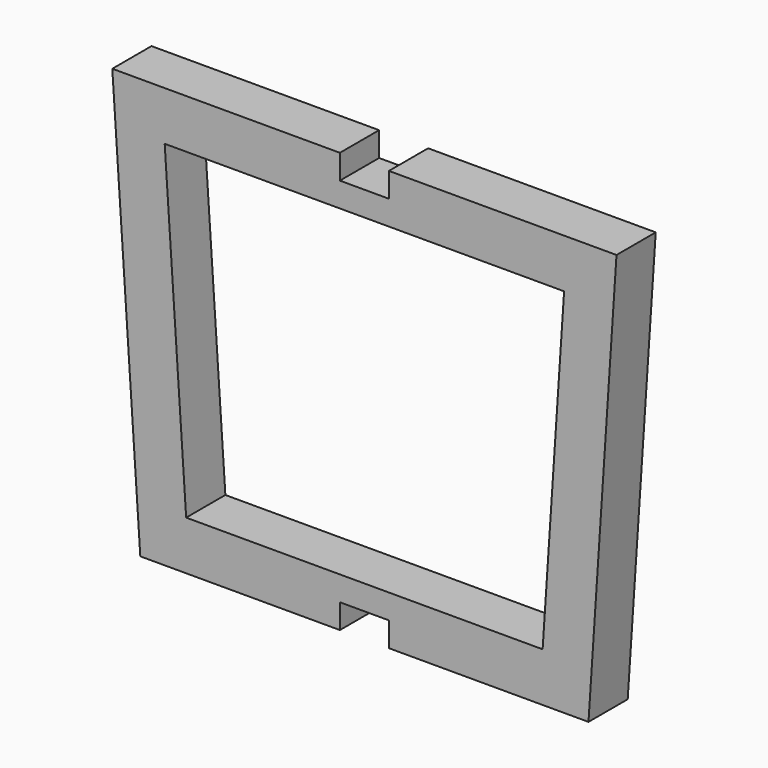
from build123d import *

# Parameters (mm, degrees)
F2_DEPTH = 17.5
F3_DEPTH = 17.5
F4_W     = 35
F4_H     = 17.5
F5_DEPTH = 35
F6_W     = 35
F6_H     = 17.5
F7_DEPTH = 35


with BuildPart() as f2:
    # F0 (on Front) → F2 (new body, symmetric)
    with BuildSketch(Plane.XZ):
        Polygon((180, 150), (-180, 150), (-160, -150), (160, -150), align=None)
    extrude(amount=F2_DEPTH, both=True)

    # F1 (on face) → F3 (cut, symmetric)
    with BuildSketch(Plane.XZ):
        Polygon((142.588975, 115), (-142.588975, 115), (-127.255642, -115), (127.255642, -115), align=None)
    extrude(amount=F3_DEPTH, both=True, mode=Mode.SUBTRACT)

    # F4 (on face) → F5 (cut)
    with BuildSketch(Plane.XZ.offset(17.5)):
        with Locations((0, -141.25)):
            Rectangle(F4_W, F4_H)
    extrude(amount=-F5_DEPTH, mode=Mode.SUBTRACT)

    # F6 (on face) → F7 (cut)
    with BuildSketch(Plane.XZ.offset(17.5)):
        with Locations((0, 141.25)):
            Rectangle(F6_W, F6_H)
    extrude(amount=-F7_DEPTH, mode=Mode.SUBTRACT)


solid = f2.part
